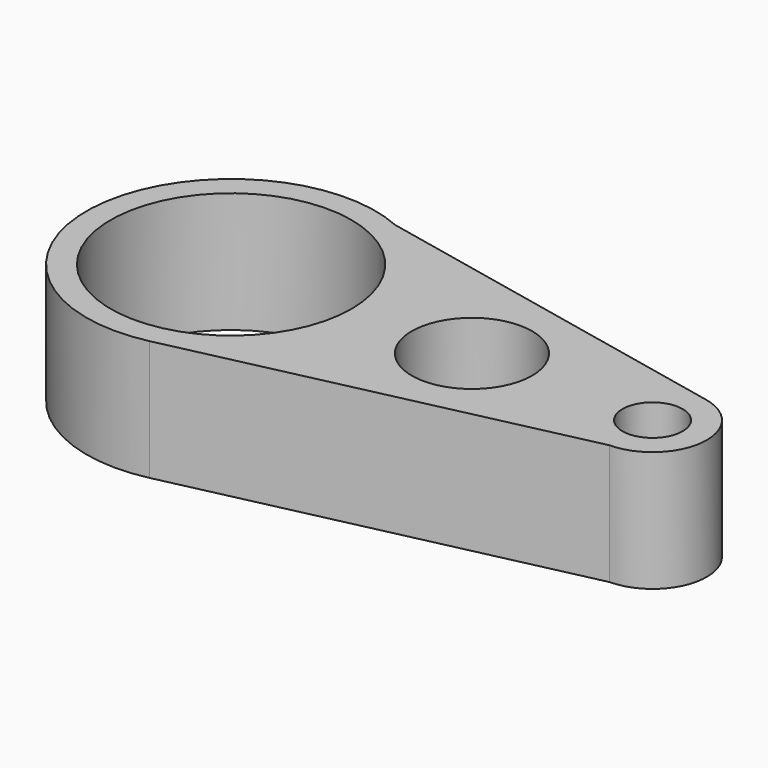
from build123d import *

# Parameters (mm, degrees)
F0_R     = 10
F0_R_2   = 5
F0_R_3   = 2.5
F1_DEPTH = 10


with BuildPart() as f1:
    # F0 (on Top) → F1 (new body)
    with BuildSketch(Plane.XY):
        with BuildLine():
            Line((-11.422409, -11.666806), (21.007945, -4.452961))
            ThreePointArc((21.007945, -4.452961), (25.449415, -0.403211), (21.902894, 4.449554))
            Line((21.902894, 4.449554), (-9.170553, 11.019818))
            ThreePointArc((-9.170553, 11.019818), (-25.969337, 1.232181), (-11.422409, -11.666806))
        make_face()
        with Locations((-14.028018, 0.046895)):
            Circle(F0_R, mode=Mode.SUBTRACT)
        with Locations((5.971982, 0.046895)):
            Circle(F0_R_2, mode=Mode.SUBTRACT)
        with Locations((20.971982, 0.046895)):
            Circle(F0_R_3, mode=Mode.SUBTRACT)
    extrude(amount=F1_DEPTH)


solid = f1.part
